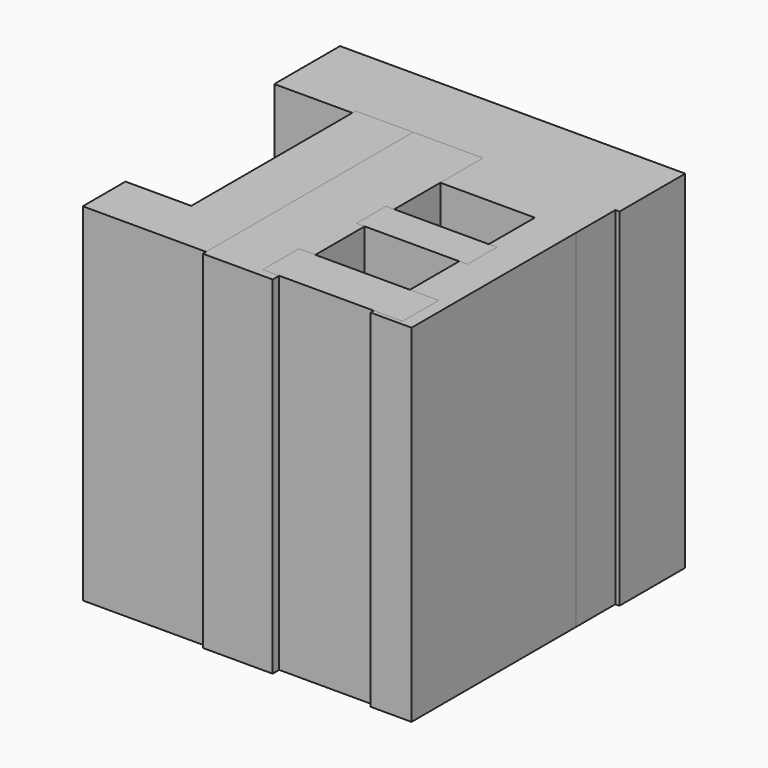
from build123d import *

# Parameters (mm, degrees)
F1_W      = 25.2663176507
F1_H      = 6.0157899279
F2_DEPTH  = 25.4
F3_W      = 4.2110527866
F3_H      = 18.949736841
F4_DEPTH  = 25.4
F5_W      = 9.0236850083
F5_H      = 3.9102621377
F6_DEPTH  = 25.4
F7_W      = 5.1134219393
F7_H      = 19.2505251616
F8_DEPTH  = 25.4
F9_W      = 11.4300006535
F9_H      = 3.6094735842
F10_DEPTH = 25.4
F11_W     = 3.0078934506
F11_H     = 18.3481578715
F12_DEPTH = 25.4
F13_W     = 8.1213139929
F13_H     = 2.70710513
F14_DEPTH = 25.4
F15_W     = 10.2268396877
F15_H     = 3.3086827025
F16_DEPTH = 25.4


with BuildPart() as f2:
    # F1 (on face) → F2 (new body)
    with BuildSketch(Plane.XY):
        with Locations((2.7071060613, 6.6173685482)):
            Rectangle(F1_W, F1_H)
    extrude(amount=F2_DEPTH)

    # F9 (on face) → F10 (join)
    with BuildSketch(Plane.XY):
        with Locations((9.3244753079, 1.8047367921)):
            Rectangle(F9_W, F9_H)
    extrude(amount=F10_DEPTH)

    # F11 (on face) → F12 (join)
    with BuildSketch(Plane.XY):
        with Locations((13.5355251841, -5.8653948363)):
            Rectangle(F11_W, F11_H)
    extrude(amount=F12_DEPTH)


with BuildPart() as f4:
    # F3 (on face) → F4 (new body)
    with BuildSketch(Plane.XY):
        with Locations((-2.1055263933, -5.5646053515)):
            Rectangle(F3_W, F3_H)
    extrude(amount=F4_DEPTH)

    # F5 (on face) → F6 (join)
    with BuildSketch(Plane.XY):
        with Locations((-4.5118425041, -13.0843427032)):
            Rectangle(F5_W, F5_H)
    extrude(amount=F6_DEPTH)


with BuildPart() as f8:
    # F7 (on face) → F8 (new body)
    with BuildSketch(Plane.XY):
        with Locations((2.5567109697, -5.7149995118)):
            Rectangle(F7_W, F7_H)
    extrude(amount=F8_DEPTH)


with BuildPart() as f14:
    # F13 (on face) → F14 (new body)
    with BuildSketch(Plane.XY):
        with Locations((8.5724999662, -5.5646053515)):
            Rectangle(F13_W, F13_H)
    extrude(amount=F14_DEPTH)


with BuildPart() as f16:
    # F15 (on face) → F16 (new body)
    with BuildSketch(Plane.XY):
        with Locations((9.0236843098, -13.0843422376)):
            Rectangle(F15_W, F15_H)
    extrude(amount=F16_DEPTH)


solid = Compound([f2.part, f4.part, f8.part, f14.part, f16.part])
